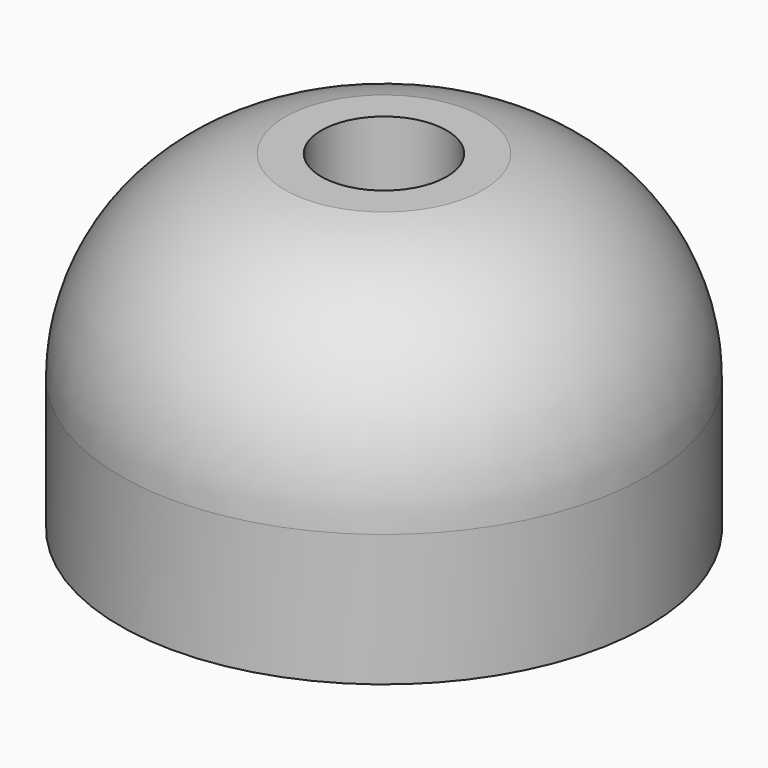
from build123d import *

# Parameters (mm, degrees)
PAD_DEPTH          = 0.6
POLARPATTERN_COUNT = 5


with BuildPart() as part:
    # Sketch → Revolution (revolve)
    with BuildSketch(Plane.XZ):
        with BuildLine():
            Line((16, 0), (16, 8))
            ThreePointArc((16, 8), (13.1723, 15.81025), (6, 20))
            Line((3.8, 20), (6, 20))
            Line((3.8, 8), (3.8, 20))
            Line((1.8, 6), (3.8, 8))
            Line((1.8, 6), (1.8, 0))
            Line((1.8, 0), (3.8, 0))
            Line((3.8, 0), (3.8, 5.5))
            Line((3.8, 5.5), (5.5, 7.2))
            Line((5.5, 7.2), (5.5, 18))
            ThreePointArc((14, 8), (11.587885, 14.562202), (5.5, 18))
            Line((14, 0), (14, 8))
            Line((16, 0), (14, 0))
        make_face()
    revolve(axis=Axis((0, 0, 0), (0, 0, 1)))

    # Sketch001 → Pad (new body, symmetric)
    with BuildSketch(Plane.XZ):
        with BuildLine():
            Line((14.5, 0), (14.5, 8))
            ThreePointArc((14.5, 8), (11.942101, 14.914658), (5.5, 18.5))
            Line((5.5, 7.5), (5.5, 18.5))
            Line((3.5, 5.5), (5.5, 7.5))
            Line((3.5, 0), (3.5, 5.5))
            Line((3.5, 0), (14.5, 0))
        make_face()
    pad = extrude(amount=PAD_DEPTH, both=True)

    # PolarPattern: Pad ×5 about axis
    polarpattern_axis = Axis((0, 0, 0), (0, 0, 1))
    for i in range(1, POLARPATTERN_COUNT):
        add(pad.rotate(polarpattern_axis, i * 360 / POLARPATTERN_COUNT))


solid = part.part
